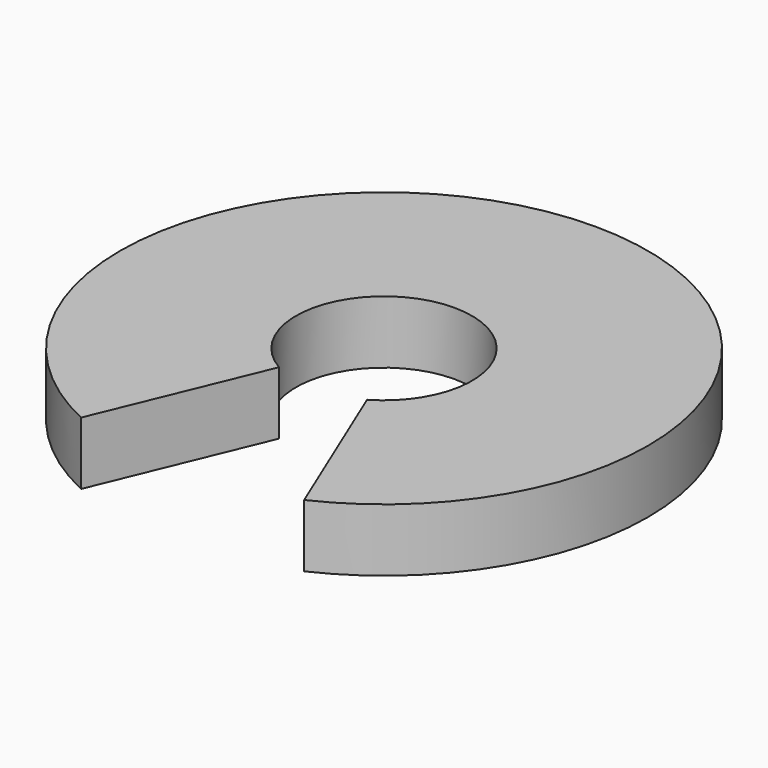
from build123d import *

# Parameters (mm, degrees)
PAD_DEPTH = 5


with BuildPart() as part:
    # Sketch → Pad (new body)
    with BuildSketch(Plane.XY):
        with BuildLine():
            ThreePointArc((8.872875, -19.033446), (0, 21), (-8.872875, -19.033446))
            Line((-3.5, -6.062178), (-8.872875, -19.033446))
            ThreePointArc((3.5, -6.062178), (0, 7), (-3.5, -6.062178))
            Line((3.5, -6.062178), (8.872875, -19.033446))
        make_face()
    extrude(amount=PAD_DEPTH)


solid = part.part
